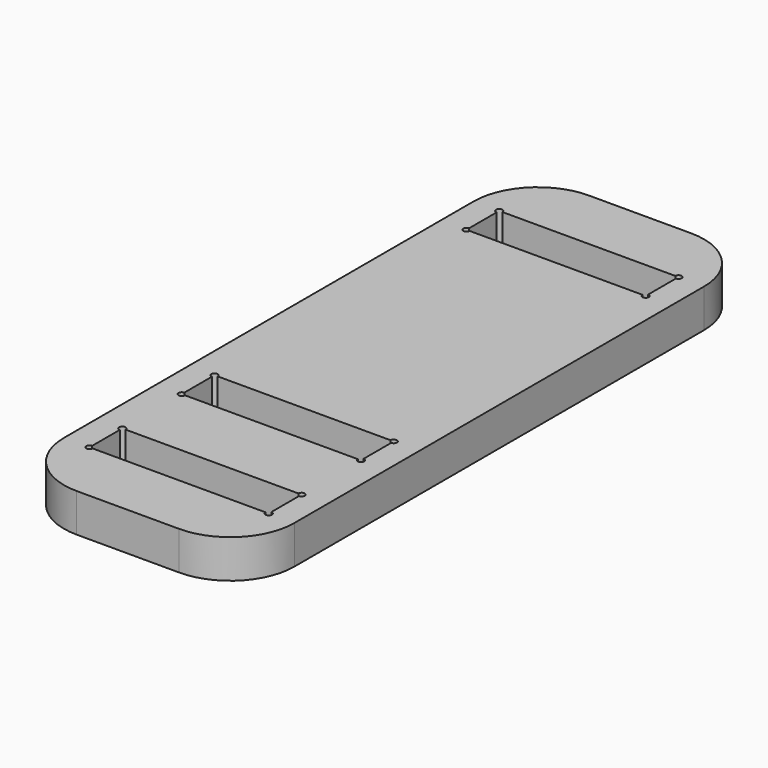
from build123d import *

# Parameters (mm, degrees)
F1_DEPTH = 3


with BuildPart() as f1:
    # F0 (on Top) → F1 (new body)
    with BuildSketch(Plane.XY):
        with BuildLine():
            Line((4, 50), (-4, 50))
            ThreePointArc((-4, 50), (-7.535534, 48.535534), (-9, 45))
            Line((-9, 45), (-9, 5))
            ThreePointArc((-9, 5), (-7.535534, 1.464466), (-4, 0))
            Line((-4, 0), (4, 0))
            ThreePointArc((4, 0), (7.535534, 1.464466), (9, 5))
            Line((9, 5), (9, 45))
            ThreePointArc((9, 45), (7.535534, 48.535534), (4, 50))
        make_face()
        with BuildLine():
            ThreePointArc((-7, 7.95), (-7.176777, 8.376777), (-6.75, 8.2))
            Line((-6.75, 8.2), (6.75, 8.2))
            ThreePointArc((6.75, 8.2), (7, 8.45), (7.25, 8.2))
            ThreePointArc((7.25, 8.2), (7.176777, 8.023223), (7, 7.95))
            Line((7, 7.95), (7, 5.25))
            ThreePointArc((7, 5.25), (7.176777, 5.176777), (7.25, 5))
            ThreePointArc((7.25, 5), (7, 4.75), (6.75, 5))
            Line((6.75, 5), (-6.75, 5))
            ThreePointArc((-6.75, 5), (-7.176777, 4.823223), (-7, 5.25))
            Line((-7, 5.25), (-7, 7.95))
        make_face(mode=Mode.SUBTRACT)
        with BuildLine():
            ThreePointArc((-7, 16.95), (-7.176777, 17.376777), (-6.75, 17.2))
            Line((-6.75, 17.2), (6.75, 17.2))
            ThreePointArc((6.75, 17.2), (7, 17.45), (7.25, 17.2))
            ThreePointArc((7.25, 17.2), (7.176777, 17.023223), (7, 16.95))
            Line((7, 16.95), (7, 14.25))
            ThreePointArc((7, 14.25), (7.176777, 14.176777), (7.25, 14))
            ThreePointArc((7.25, 14), (7, 13.75), (6.75, 14))
            Line((6.75, 14), (-6.75, 14))
            ThreePointArc((-6.75, 14), (-7.176777, 13.823223), (-7, 14.25))
            Line((-7, 14.25), (-7, 16.95))
        make_face(mode=Mode.SUBTRACT)
        with BuildLine():
            ThreePointArc((-7, 44.75), (-7.176777, 45.176777), (-6.75, 45))
            Line((-6.75, 45), (6.75, 45))
            ThreePointArc((6.75, 45), (7, 45.25), (7.25, 45))
            ThreePointArc((7.25, 45), (7.176777, 44.823223), (7, 44.75))
            Line((7, 44.75), (7, 42.05))
            ThreePointArc((7, 42.05), (7.176777, 41.976777), (7.25, 41.8))
            ThreePointArc((7.25, 41.8), (7, 41.55), (6.75, 41.8))
            Line((6.75, 41.8), (-6.75, 41.8))
            ThreePointArc((-6.75, 41.8), (-7.176777, 41.623223), (-7, 42.05))
            Line((-7, 42.05), (-7, 44.75))
        make_face(mode=Mode.SUBTRACT)
    extrude(amount=F1_DEPTH)


solid = f1.part
